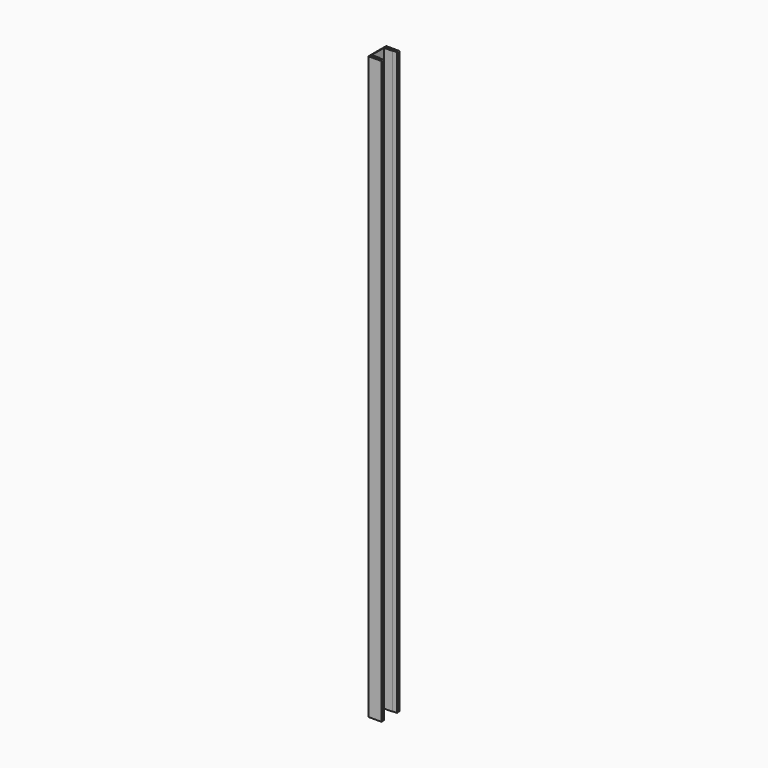
from build123d import *

# Parameters (mm, degrees)
F1_DEPTH = 2620
F3_DEPTH = 2620
F5_DEPTH = 2620
F7_DEPTH = 2620


with BuildPart() as f1:
    # F0 (on Top) → F1 (new body)
    with BuildSketch(Plane.XY):
        with BuildLine():
            Line((40, 37.5), (3, 37.5))
            ThreePointArc((3, 37.5), (0.87868, 36.62132), (0, 34.5))
            Line((0, 34.5), (0, -34.5))
            ThreePointArc((0, -34.5), (0.87868, -36.62132), (3, -37.5))
            Line((3, -37.5), (40, -37.5))
            Line((40, -37.5), (40, -34.5))
            Line((40, -34.5), (4, -34.5))
            ThreePointArc((4, -34.5), (3.292893, -34.207107), (3, -33.5))
            Line((3, -33.5), (3, 33.5))
            ThreePointArc((3, 33.5), (3.292893, 34.207107), (4, 34.5))
            Line((4, 34.5), (40, 34.5))
            Line((40, 34.5), (40, 37.5))
        make_face()
    extrude(amount=F1_DEPTH)


with BuildPart() as f3:
    # F2 (on Top) → F3 (new body)
    with BuildSketch(Plane.XY):
        with BuildLine():
            Line((40, 50), (3, 50))
            ThreePointArc((3, 50), (0.87868, 49.12132), (0, 47))
            Line((0, 47), (0, -47))
            ThreePointArc((0, -47), (0.87868, -49.12132), (3, -50))
            Line((3, -50), (40, -50))
            Line((40, -50), (40, -47))
            Line((40, -47), (4, -47))
            ThreePointArc((4, -47), (3.292893, -46.707107), (3, -46))
            Line((3, -46), (3, 46))
            ThreePointArc((3, 46), (3.292893, 46.707107), (4, 47))
            Line((4, 47), (40, 47))
            Line((40, 47), (40, 50))
        make_face()
    extrude(amount=F3_DEPTH)


with BuildPart() as f5:
    # F4 (on Top) → F5 (new body)
    with BuildSketch(Plane.XY):
        with BuildLine():
            Line((60, 37.5), (1, 37.5))
            ThreePointArc((1, 37.5), (0.292893, 37.207107), (0, 36.5))
            Line((0, 36.5), (0, -36.5))
            ThreePointArc((0, -36.5), (0.292893, -37.207107), (1, -37.5))
            Line((1, -37.5), (60, -37.5))
            Line((60, -37.5), (60, -36.9))
            Line((60, -36.9), (1.1, -36.9))
            ThreePointArc((1.1, -36.9), (0.746447, -36.753553), (0.6, -36.4))
            Line((0.6, -36.4), (0.6, 36.4))
            ThreePointArc((0.6, 36.4), (0.746447, 36.753553), (1.1, 36.9))
            Line((1.1, 36.9), (60, 36.9))
            Line((60, 36.9), (60, 37.5))
        make_face()
    extrude(amount=F5_DEPTH)


with BuildPart() as f7:
    # F6 (on Top) → F7 (new body)
    with BuildSketch(Plane.XY):
        with BuildLine():
            Line((60, 50), (1, 50))
            ThreePointArc((1, 50), (0.292893, 49.707107), (0, 49))
            Line((0, 49), (0, -49))
            ThreePointArc((0, -49), (0.292893, -49.707107), (1, -50))
            Line((1, -50), (60, -50))
            Line((60, -50), (60, -49.4))
            Line((60, -49.4), (1.1, -49.4))
            ThreePointArc((1.1, -49.4), (0.746447, -49.253553), (0.6, -48.9))
            Line((0.6, -48.9), (0.6, 48.9))
            ThreePointArc((0.6, 48.9), (0.746447, 49.253553), (1.1, 49.4))
            Line((1.1, 49.4), (60, 49.4))
            Line((60, 49.4), (60, 50))
        make_face()
    extrude(amount=F7_DEPTH)


solid = Compound([f1.part, f3.part, f5.part, f7.part])
